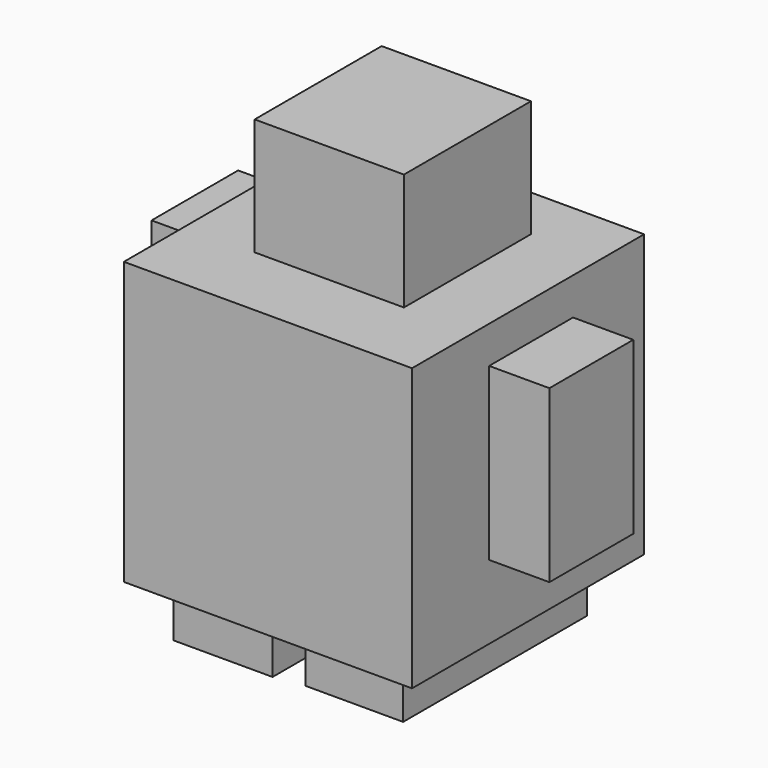
from build123d import *

# Parameters (mm, degrees)
F0_W      = 74.0942507982
F0_H      = 74.6015533805
F1_DEPTH  = 72.4732205272
F2_W      = 38.3877456188
F2_H      = 40.8380180597
F3_DEPTH  = 30.0961155444
F4_W      = 26.9601941109
F4_H      = 43.9190119505
F5_DEPTH  = 15.5
F6_W      = 27.8298556805
F6_H      = 43.9190119505
F7_DEPTH  = 15.5
F8_W      = 25.5186259747
F8_H      = 59.9911510944
F9_DEPTH  = 15.5
F10_W     = 25.0709354877
F10_H     = 59.0957701206
F11_DEPTH = 15.5


with BuildPart() as f1:
    # F0 (on Top) → F1 (new body)
    with BuildSketch(Plane.XY):
        with Locations((-37.0471253991, 37.3007766902)):
            Rectangle(F0_W, F0_H)
    extrude(amount=F1_DEPTH)

    # F2 (on face) → F3 (join)
    with BuildSketch(Plane.XY.offset(72.4732205272)):
        with Locations((-36.9584262371, 40.0212556124)):
            Rectangle(F2_W, F2_H)
    extrude(amount=F3_DEPTH)

    # F4 (on face) → F5 (join)
    with BuildSketch(Plane.YZ):
        with Locations((38.2660329342, 40.9622490406)):
            Rectangle(F4_W, F4_H)
    extrude(amount=F5_DEPTH)

    # F6 (on face) → F7 (join)
    with BuildSketch(Plane(origin=(-74.0942507982, 0, 0), x_dir=(0, -1, 0), z_dir=(-1, 0, 0))):
        with Locations((-42.1796441078, 43.3538928628)):
            Rectangle(F6_W, F6_H)
    extrude(amount=F7_DEPTH)

    # F8 (on face) → F9 (join)
    with BuildSketch(Plane(origin=(0, 0, 0), x_dir=(1, 0, 0), z_dir=(0, 0, -1))):
        with Locations((-56.3197880983, -39.6210104227)):
            Rectangle(F8_W, F8_H)
    extrude(amount=F9_DEPTH)

    # F10 (on face) → F11 (join)
    with BuildSketch(Plane(origin=(0, 0, 0), x_dir=(1, 0, 0), z_dir=(0, 0, -1))):
        with Locations((-23.4141945839, -40.2925610542)):
            Rectangle(F10_W, F10_H)
    extrude(amount=F11_DEPTH)


solid = f1.part
